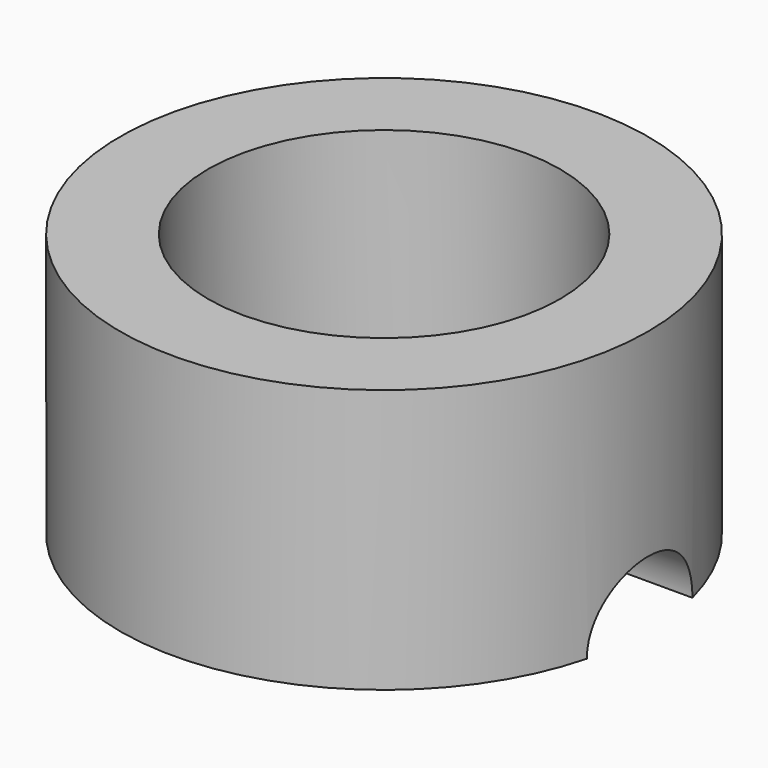
from build123d import *

# Parameters (mm, degrees)
F0_R     = 38.1
F0_R_2   = 25.4
F1_DEPTH = 38.1
F4_D     = 19.05
F4_DEPTH = 25.4


with BuildPart() as f1:
    # F0 (on Top) → F1 (new body)
    with BuildSketch(Plane.XY):
        Circle(F0_R)
        Circle(F0_R_2, mode=Mode.SUBTRACT)
    extrude(amount=F1_DEPTH)

    # F4
    with Locations(Plane.YZ.offset(38.1)):
        with Locations((0, 0)):
            Hole(F4_D / 2, depth=F4_DEPTH)


solid = f1.part
